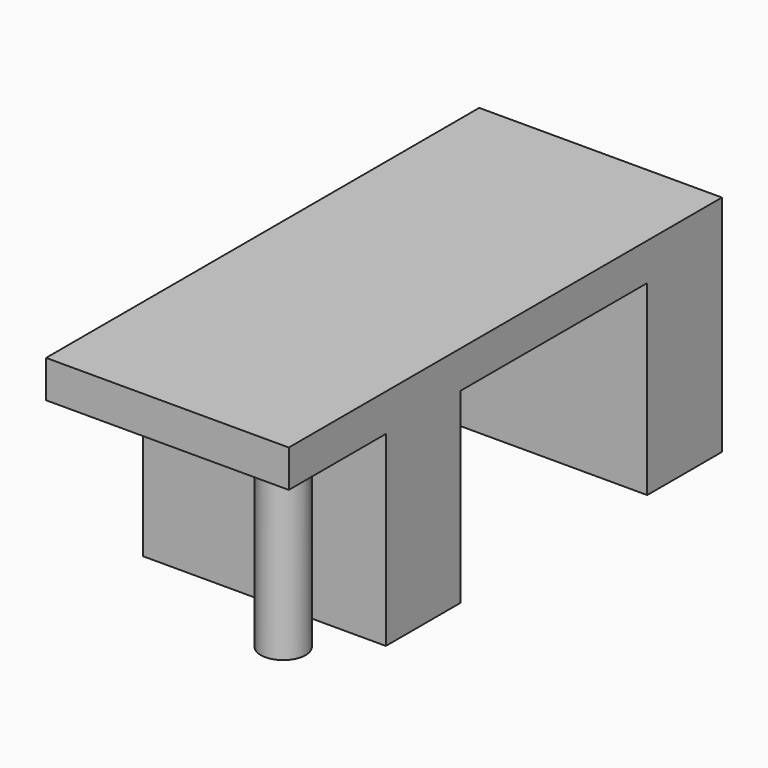
from build123d import *

# Parameters (mm, degrees)
SKETCH082_W  = 26
SKETCH082_H  = 58
PAD036_DEPTH = 4
SKETCH083_W  = 26
SKETCH083_H  = 10
PAD037_DEPTH = 20
SKETCH084_R  = 2.4
PAD038_DEPTH = 17


with BuildPart() as part:
    # Sketch082 → Pad036 (new body)
    with BuildSketch(Plane(origin=(125, -105, 16), x_dir=(1, 0, 0), z_dir=(0, 0, -1))):
        with Locations((5, 1)):
            Rectangle(SKETCH082_W, SKETCH082_H)
    extrude(amount=PAD036_DEPTH)

    # Sketch083 → Pad037 (new body)
    with BuildSketch(Plane(origin=(125, -105, 12), x_dir=(1, 0, 0), z_dir=(0, 0, -1))):
        with Locations((5, 12)):
            Rectangle(SKETCH083_W, SKETCH083_H)
        with Locations((5, -23)):
            Rectangle(SKETCH083_W, SKETCH083_H)
    extrude(amount=PAD037_DEPTH)

    # Sketch084 → Pad038 (new body)
    with BuildSketch(Plane(origin=(125, -105, 12), x_dir=(1, 0, 0), z_dir=(0, 0, -1))):
        with Locations((15, 27)):
            Circle(SKETCH084_R)
    extrude(amount=PAD038_DEPTH)


solid = part.part
